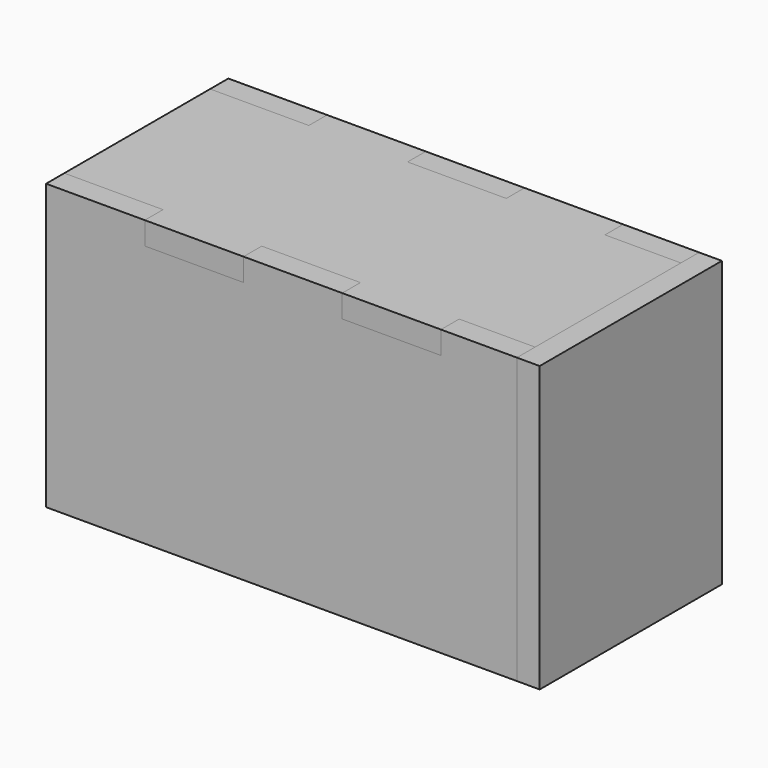
from build123d import *

# Parameters (mm, degrees)
F0_W      = 60
F0_H      = 75
F1_DEPTH  = 65
F1_FACE_W = 60
F1_FACE_H = 75
F2_DEPTH  = 65
F3_T      = -6
F5_DEPTH  = 6
F6_W      = 60
F6_H      = 75
F7_DEPTH  = 6


with BuildPart() as f1:
    # F0 (on Right) → F1 (new body)
    with BuildSketch(Plane.YZ):
        with Locations((-7.280336, 37.5)):
            Rectangle(F0_W, F0_H)
    extrude(amount=F1_DEPTH)

    # F1_face (on face) → F2 (join)
    with BuildSketch(Plane(origin=(0, -7.280336, 37.5), x_dir=(0, 1, 0), z_dir=(-1, 0, 0))):
        Rectangle(F1_FACE_W, F1_FACE_H)
    extrude(amount=F2_DEPTH)

    # F3
    f3_openings = [f1.faces().sort_by_distance(p)[0] for p in [
        (65, -7.280336, 37.5),
    ]]
    offset(amount=F3_T, openings=f3_openings)


with BuildPart() as f5:
    # F4 (on face) → F5 (new body)
    with BuildSketch(Plane.XY.offset(75)):
        Polygon((-13, 22.719664), (-39, 22.719664), (-39, 16.719664), (-65, 16.719664), (-65, -31.280336), (-39, -31.280336), (-39, -37.280336), (-13, -37.280336), (-13, -31.280336), (13, -31.280336), (13, -37.280336), (39, -37.280336), (39, -31.280336), (65, -31.280336), (65, 16.719664), (39, 16.719664), (39, 22.719664), (13, 22.719664), (13, 16.719664), (-13, 16.719664), align=None)
    extrude(amount=-F5_DEPTH)


with BuildPart() as f7:
    # F6 (on face) → F7 (new body)
    with BuildSketch(Plane.YZ.offset(65)):
        with Locations((-7.280336, 37.5)):
            Rectangle(F6_W, F6_H)
    extrude(amount=-F7_DEPTH)


solid = Compound([f1.part, f5.part, f7.part])
